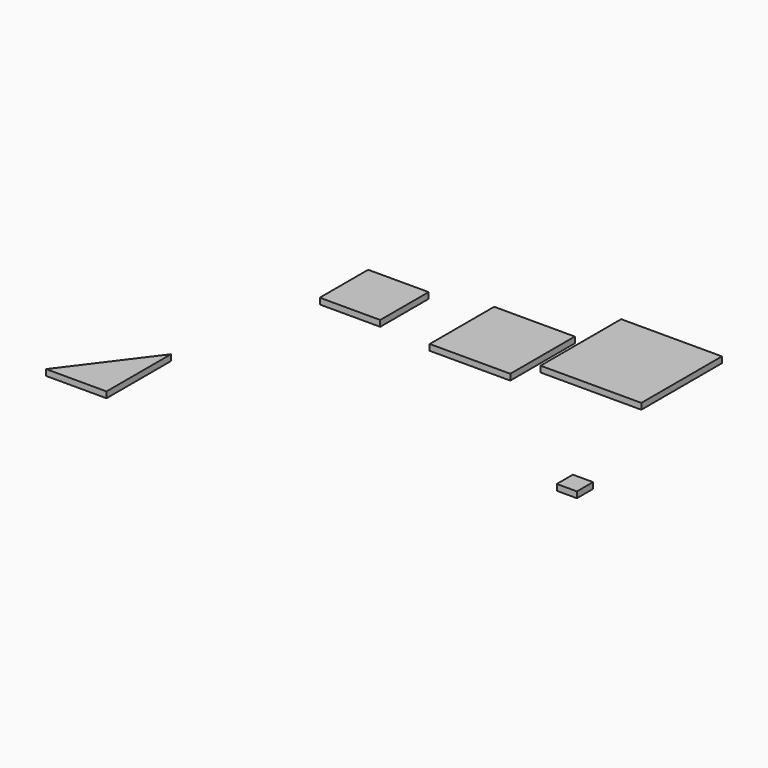
from build123d import *

# Parameters (mm, degrees)
F0_W     = 30
F0_H     = 30
F0_W_2   = 40
F0_H_2   = 40
F0_W_3   = 50
F0_H_3   = 50
F0_W_4   = 10
F0_H_4   = 10
F1_DEPTH = 3


with BuildPart() as f1:
    # F0 (on Top) → F1 (new body)
    with BuildSketch(Plane.XY):
        Polygon((-90.880709, -3.876465), (-120.880709, -43.876465), (-90.880709, -43.876465), align=None)
        with Locations((-60.5028, 84.20198)):
            Rectangle(F0_W, F0_H)
        with Locations((2.048062, 85.44915)):
            Rectangle(F0_W_2, F0_H_2)
        with Locations((51.975785, 103.072295)):
            Rectangle(F0_W_3, F0_H_3)
        with Locations((98.884682, 9.480448)):
            Rectangle(F0_W_4, F0_H_4)
    extrude(amount=F1_DEPTH)


solid = f1.part
